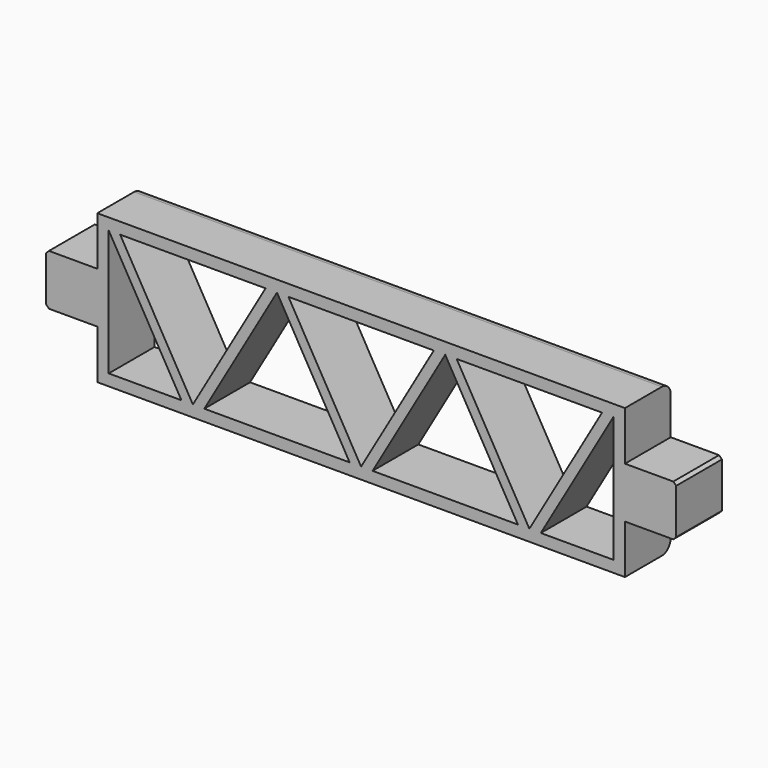
from build123d import *

# Parameters (mm, degrees)
SKETCH_W        = 92.210236
SKETCH_H        = 26
PAD_DEPTH       = 10
SKETCH001_W     = 8.9
SKETCH001_H     = 10
PAD001_DEPTH    = 8.95
CHAMFER_SIZE    = 0.5
CHAMFER001_SIZE = 0.5
SKETCH002_W     = 8.9
SKETCH002_H     = 10
PAD002_DEPTH    = 8.95
CHAMFER002_SIZE = 0.5
CHAMFER003_SIZE = 0.5
FILLET_R        = 1.95
FILLET001_R     = 1.95


with BuildPart() as part:
    # Sketch → Pad (new body)
    with BuildSketch(Plane.XZ):
        Rectangle(SKETCH_W, SKETCH_H)
        Polygon((-44.105118, 11), (-44.105118, -11), (-31.403412, -11), align=None, mode=Mode.SUBTRACT)
        Polygon((-29.403412, -11), (-42.105118, 11), (-16.701706, 11), align=None, mode=Mode.SUBTRACT)
        Polygon((-14.701706, 11), (-27.403412, -11), (-2, -11), align=None, mode=Mode.SUBTRACT)
        Polygon((-12.701706, 11), (12.701706, 11), (0, -11), align=None, mode=Mode.SUBTRACT)
        Polygon((14.701706, 11), (2, -11), (27.403412, -11), align=None, mode=Mode.SUBTRACT)
        Polygon((16.701706, 11), (42.105118, 11), (29.403412, -11), align=None, mode=Mode.SUBTRACT)
        Polygon((44.105118, 11), (44.105118, -11), (31.403412, -11), align=None, mode=Mode.SUBTRACT)
    extrude(amount=PAD_DEPTH)

    # Sketch001 (on Face4 of Pad) → Pad001 (join)
    with BuildSketch(Plane(origin=(-46.105118, 0, 0), x_dir=(0, 0, -1), z_dir=(-1, 0, 0))):
        with Locations((0, 5)):
            Rectangle(SKETCH001_W, SKETCH001_H)
    extrude(amount=PAD001_DEPTH)

    # Chamfer
    chamfer_edges = [part.edges().sort_by_distance(p)[0] for p in [
        (-55.055118, -5, 4.45),
    ]]
    chamfer(chamfer_edges, length=CHAMFER_SIZE)

    # Chamfer001
    chamfer001_edges = [part.edges().sort_by_distance(p)[0] for p in [
        (-55.055118, -5, -4.45),
    ]]
    chamfer(chamfer001_edges, length=CHAMFER001_SIZE)

    # Sketch002 (on Face12 of Chamfer001) → Pad002 (join)
    with BuildSketch(Plane(origin=(46.105118, 0, 0), x_dir=(0, 0, 1), z_dir=(1, 0, 0))):
        with Locations((0, 5)):
            Rectangle(SKETCH002_W, SKETCH002_H)
    extrude(amount=PAD002_DEPTH)

    # Chamfer002
    chamfer002_edges = [part.edges().sort_by_distance(p)[0] for p in [
        (55.055118, -5, 4.45),
    ]]
    chamfer(chamfer002_edges, length=CHAMFER002_SIZE)

    # Chamfer003
    chamfer003_edges = [part.edges().sort_by_distance(p)[0] for p in [
        (55.055118, -5, -4.45),
    ]]
    chamfer(chamfer003_edges, length=CHAMFER003_SIZE)

    # Fillet
    fillet_edges = [part.edges().sort_by_distance(p)[0] for p in [
        (0, 0, 13),
    ]]
    fillet(fillet_edges, radius=FILLET_R)

    # Fillet001
    fillet001_edges = [part.edges().sort_by_distance(p)[0] for p in [
        (0, 0, -13),
    ]]
    fillet(fillet001_edges, radius=FILLET001_R)


solid = part.part
